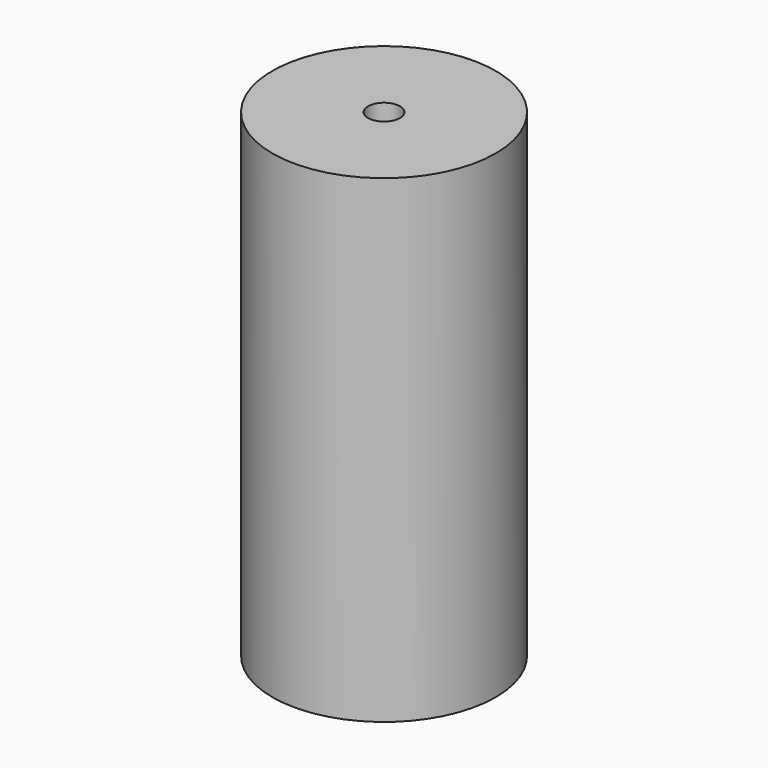
from build123d import *

# Parameters (mm, degrees)
F0_R     = 35
F1_DEPTH = 150
F2_R     = 25
F3_DEPTH = 90
F4_R     = 5
F5_DEPTH = 150.001


with BuildPart() as f1:
    # F0 (on Top) → F1 (new body)
    with BuildSketch(Plane.XY):
        Circle(F0_R)
    extrude(amount=F1_DEPTH)

    # F2 (on face) → F3 (cut)
    with BuildSketch(Plane(origin=(0, 0, 0), x_dir=(1, 0, 0), z_dir=(0, 0, -1))):
        Circle(F2_R)
    extrude(amount=-F3_DEPTH, mode=Mode.SUBTRACT)

    # F4 (on face) → F5 (cut, through all)
    with BuildSketch(Plane.XY.offset(150)):
        Circle(F4_R)
    extrude(amount=-F5_DEPTH, mode=Mode.SUBTRACT)


solid = f1.part
